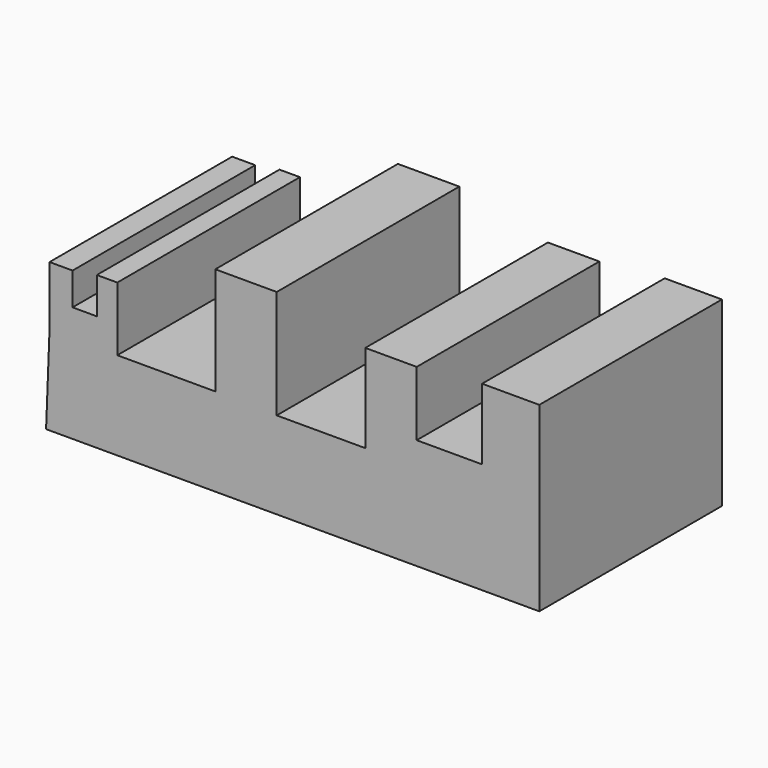
from build123d import *

# Parameters (mm, degrees)
F1_DEPTH = 304.8


with BuildPart() as f1:
    # F0 (on Front) → F1 (new body)
    with BuildSketch(Plane.XZ):
        Polygon((-30.723836, 149.377882), (-30.723836, 70.500679), (-35.349026, -48.575044), (623.266995, -48.575044), (623.266995, 194.194913), (546.842933, 194.194913), (546.842933, 99.37501), (459.561288, 99.37501), (459.561288, 185.580254), (390.920103, 185.580254), (390.920103, 67.745209), (272.610962, 67.745209), (272.610962, 212.840348), (190.583825, 212.840348), (190.583825, 69.239423), (59.740845, 69.239423), (59.740845, 154.693067), (32.430731, 154.693067), (32.430731, 106.081724), (0, 106.081724), (0, 149.377882), align=None)
    extrude(amount=F1_DEPTH)


solid = f1.part
